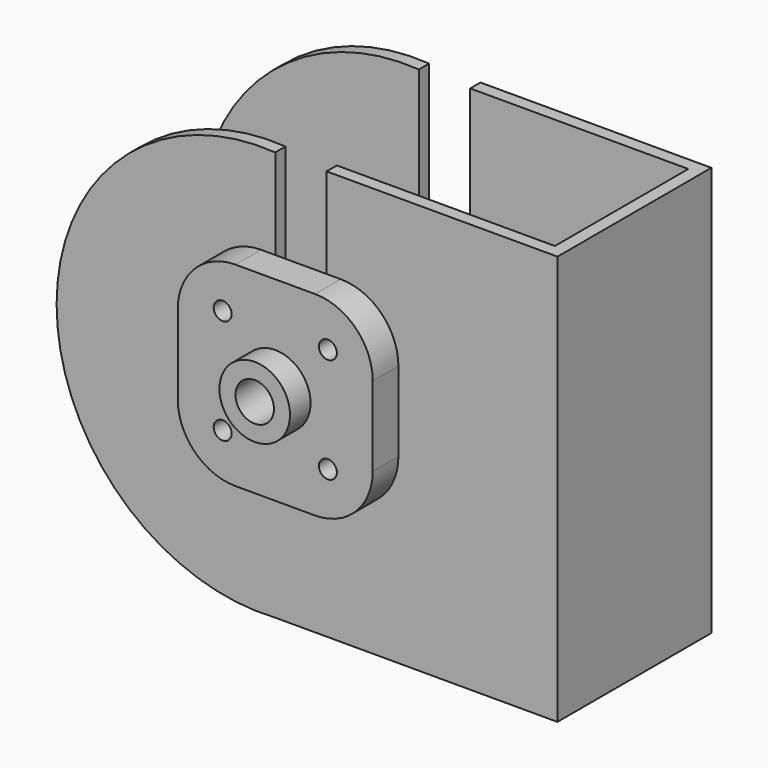
from build123d import *

# Parameters (mm, degrees)
F0_R     = 7
F1_DEPTH = 150
F2_W     = 390
F2_H     = 130
F3_DEPTH = 5000
F4_R     = 7
F4_R_2   = 27.5
F5_DEPTH = 25
F6_R     = 27.5
F6_R_2   = 15
F7_DEPTH = 45


with BuildPart() as f1:
    # F0 (on Front) → F1 (new body)
    with BuildSketch(Plane.XZ):
        with BuildLine():
            Line((200, 319.316469), (20, 319.316469))
            Line((20, 319.316469), (20, 139.316469))
            ThreePointArc((20, 139.316469), (0, 119.316469), (-20, 139.316469))
            Line((-20, 139.316469), (-20, 319.316469))
            ThreePointArc((-20, 319.316469), (-190.452185, 159.658234), (-20, 0))
            Line((-20, 0), (200, 0))
            Line((200, 0), (200, 319.316469))
        make_face()
        with Locations((-41, 131.881108)):
            Circle(F0_R, mode=Mode.SUBTRACT)
        with Locations((41, 131.881108)):
            Circle(F0_R, mode=Mode.SUBTRACT)
        with Locations((-41, 213.881108)):
            Circle(F0_R, mode=Mode.SUBTRACT)
        with Locations((41, 213.881108)):
            Circle(F0_R, mode=Mode.SUBTRACT)
    extrude(amount=F1_DEPTH)

    # F2 (on face) → F3 (cut, symmetric)
    with BuildSketch(Plane(origin=(0, 0, 0), x_dir=(1, 0, 0), z_dir=(0, 0, -1))):
        with Locations((-5, 75)):
            Rectangle(F2_W, F2_H)
    extrude(amount=F3_DEPTH, both=True, mode=Mode.SUBTRACT)


with BuildPart() as f5:
    # F4 (on face) → F5 (new body)
    with BuildSketch(Plane.XZ.offset(150)):
        with BuildLine():
            ThreePointArc((-76, 141.881108), (-62.819805, 110.061303), (-31, 96.881108))
            Line((-31, 96.881108), (31, 96.881108))
            ThreePointArc((31, 96.881108), (62.819805, 110.061303), (76, 141.881108))
            Line((76, 141.881108), (76, 203.881108))
            ThreePointArc((76, 203.881108), (62.819805, 235.700913), (31, 248.881108))
            Line((31, 248.881108), (-31, 248.881108))
            ThreePointArc((-31, 248.881108), (-62.819805, 235.700913), (-76, 203.881108))
            Line((-76, 203.881108), (-76, 141.881108))
        make_face()
        with Locations((-41, 131.881108)):
            Circle(F4_R, mode=Mode.SUBTRACT)
        with Locations((41, 131.881108)):
            Circle(F4_R, mode=Mode.SUBTRACT)
        with Locations((-41, 213.881108)):
            Circle(F4_R, mode=Mode.SUBTRACT)
        with Locations((0, 172.881108)):
            Circle(F4_R_2, mode=Mode.SUBTRACT)
        with Locations((41, 213.881108)):
            Circle(F4_R, mode=Mode.SUBTRACT)
    extrude(amount=F5_DEPTH)


with BuildPart() as f7:
    # F6 (on face) → F7 (new body)
    with BuildSketch(Plane(origin=(0, -150, 0), x_dir=(-1, 0, 0), z_dir=(0, 1, 0))):
        with Locations((0, 172.881108)):
            Circle(F6_R)
        with Locations((0, 172.881108)):
            Circle(F6_R_2, mode=Mode.SUBTRACT)
    extrude(amount=-F7_DEPTH)


solid = Compound([f1.part, f5.part, f7.part])
